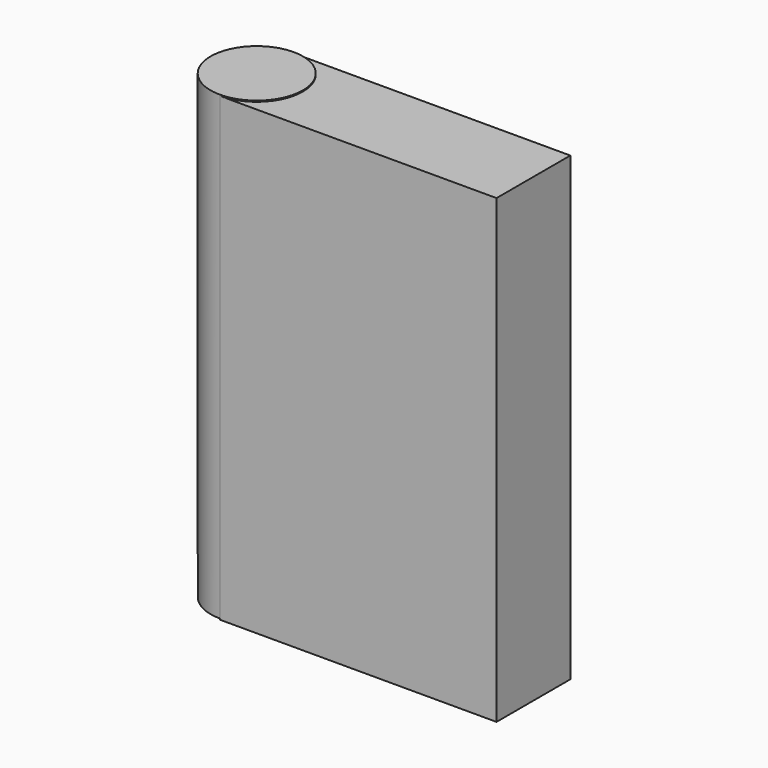
from build123d import *

# Parameters (mm, degrees)
F0_R     = 2
F1_DEPTH = 10
F2_W     = 12
F2_H     = 20
F3_DEPTH = 2


with BuildPart() as f1:
    # F0 (on Top) → F1 (new body, symmetric)
    with BuildSketch(Plane.XY):
        Circle(F0_R)
    extrude(amount=F1_DEPTH, both=True)

    # F2 (on Front) → F3 (join, symmetric)
    with BuildSketch(Plane.XZ):
        with Locations((6, -0.047689)):
            Rectangle(F2_W, F2_H)
    extrude(amount=F3_DEPTH, both=True)


solid = f1.part
